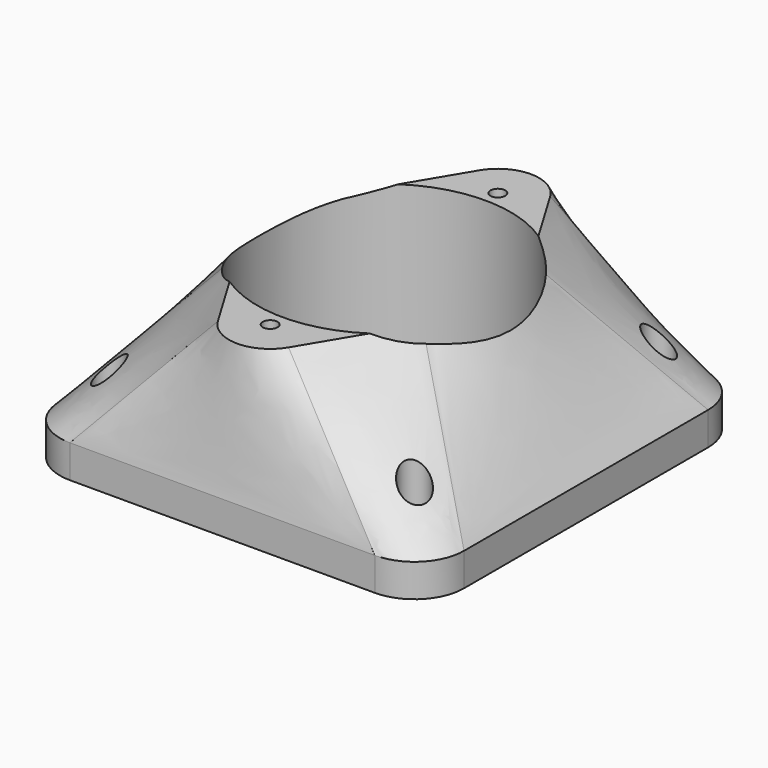
from build123d import *

# Parameters (mm, degrees)
SKETCH_R        = 19.5
SKETCH_R_2      = 2.2225
PAD_DEPTH       = 5.08
SKETCH030_R     = 2.2225
SKETCH030_R_2   = 19.5
POCKET_DEPTH    = 19.921
SKETCH031_R     = 1.143
POCKET001_DEPTH = 25.001


with BuildPart() as part:
    # Sketch → Pad (new body)
    with BuildSketch(Plane.XY):
        with BuildLine():
            ThreePointArc((-31.12, -23.5), (-28.888154, -28.888154), (-23.5, -31.12))
            Line((23.5, -31.12), (-23.5, -31.12))
            ThreePointArc((23.5, -31.12), (28.888154, -28.888154), (31.12, -23.5))
            Line((31.12, 23.5), (31.12, -23.5))
            ThreePointArc((31.12, 23.5), (28.888154, 28.888154), (23.5, 31.12))
            Line((-23.5, 31.12), (23.5, 31.12))
            ThreePointArc((-23.5, 31.12), (-28.888154, 28.888154), (-31.12, 23.5))
            Line((-31.12, -23.5), (-31.12, 23.5))
        make_face()
        Circle(SKETCH_R, mode=Mode.SUBTRACT)
        with Locations((-23.5, 23.5)):
            Circle(SKETCH_R_2, mode=Mode.SUBTRACT)
        with Locations((23.5, 23.5)):
            Circle(SKETCH_R_2, mode=Mode.SUBTRACT)
        with Locations((23.5, -23.5)):
            Circle(SKETCH_R_2, mode=Mode.SUBTRACT)
        with Locations((-23.5, -23.5)):
            Circle(SKETCH_R_2, mode=Mode.SUBTRACT)
    extrude(amount=PAD_DEPTH)

    # Sketch029 (on Face15 of Pad) → AdditiveLoft section 0
    with BuildSketch(Plane.XY.offset(5.08)):
        with BuildLine():
            ThreePointArc((-31.12, -23.5), (-28.888154, -28.888154), (-23.5, -31.12))
            Line((23.5, -31.12), (-23.5, -31.12))
            ThreePointArc((23.5, -31.12), (28.888154, -28.888154), (31.12, -23.5))
            Line((31.12, 23.5), (31.12, -23.5))
            ThreePointArc((31.12, 23.5), (28.888154, 28.888154), (23.5, 31.12))
            Line((-23.5, 31.12), (23.5, 31.12))
            ThreePointArc((-23.5, 31.12), (-28.888154, 28.888154), (-31.12, 23.5))
            Line((-31.12, -23.5), (-31.12, 23.5))
        make_face()
    # Sketch028 (on DatumPlane) → AdditiveLoft section 1
    with BuildSketch(Plane(origin=(0, 0, 25), x_dir=(1, 0, 0), z_dir=(0, 0, -1))):
        with BuildLine():
            ThreePointArc((-14.267762, 10.42365), (-17.145, 0), (-14.267762, -10.42365))
            Line((-14.267762, -10.42365), (-5.450863, -25.177701))
            ThreePointArc((-5.450863, -25.177701), (0, -28.27031), (5.450863, -25.177701))
            Line((5.450863, -25.177701), (14.267762, -10.42365))
            ThreePointArc((14.267762, -10.42365), (17.145, 0), (14.267762, 10.42365))
            Line((14.267762, 10.42365), (5.450863, 25.177701))
            ThreePointArc((5.450863, 25.177701), (0, 28.27031), (-5.450863, 25.177701))
            Line((-5.450863, 25.177701), (-14.267762, 10.42365))
        make_face()
    loft()

    # Sketch030 (on Face24 of AdditiveLoft) → Pocket (cut, through all)
    with BuildSketch(Plane(origin=(0, 0, 5.08), x_dir=(1, 0, 0), z_dir=(0, 0, -1))):
        with Locations((23.5, 23.5)):
            Circle(SKETCH030_R)
        Circle(SKETCH030_R_2)
        with Locations((-23.5, 23.5)):
            Circle(SKETCH030_R)
        with Locations((-23.5, -23.5)):
            Circle(SKETCH030_R)
        with Locations((23.5, -23.5)):
            Circle(SKETCH030_R)
    extrude(amount=-POCKET_DEPTH, mode=Mode.SUBTRACT)

    # Sketch031 (on Face19 of Pocket) → Pocket001 (cut, through all)
    with BuildSketch(Plane.XY.offset(25)):
        with Locations((0, 21.9202)):
            Circle(SKETCH031_R)
        with Locations((0, -21.9202)):
            Circle(SKETCH031_R)
    extrude(amount=-POCKET001_DEPTH, mode=Mode.SUBTRACT)


solid = part.part
